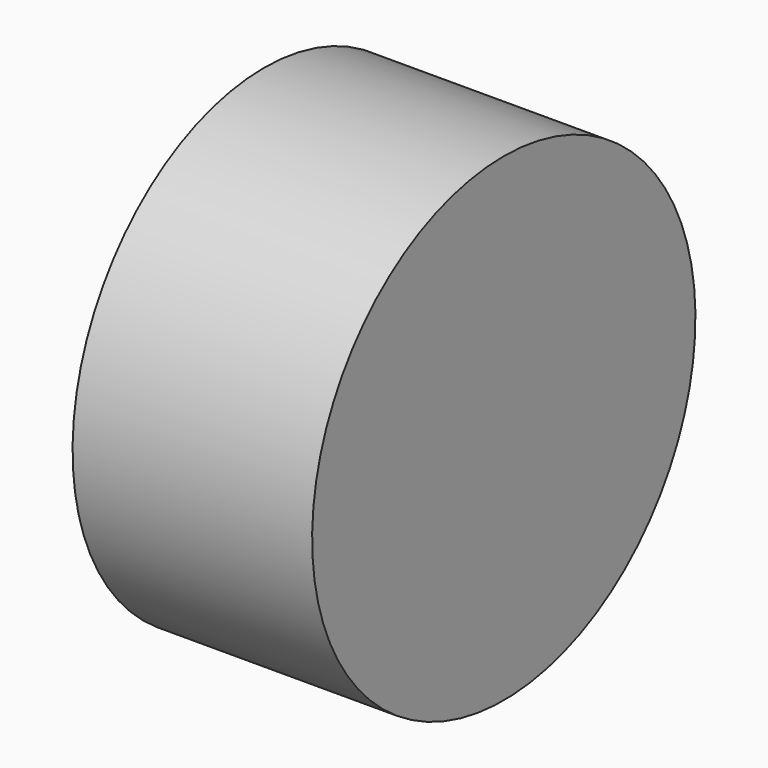
from build123d import *

# Parameters (mm, degrees)
F0_W = 4
F0_H = 4


with BuildPart() as f1:
    # F0 (on Front) → F1 (revolve)
    with BuildSketch(Plane.XZ):
        Rectangle(F0_W, F0_H)
    revolve(axis=Axis((0, 0, -2), (-1, 0, 0)))


solid = f1.part
